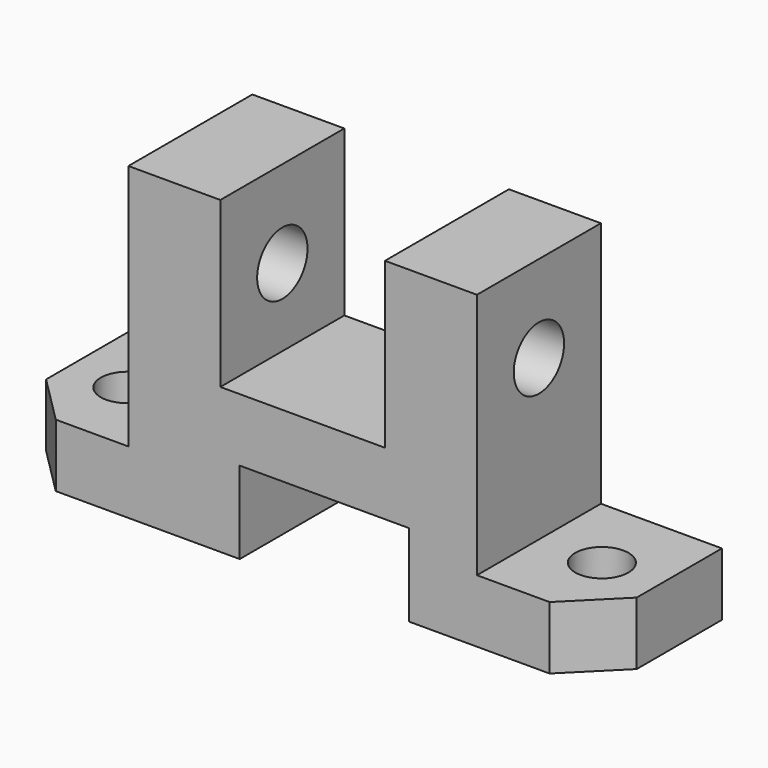
from build123d import *

# Parameters (mm, degrees)
F0_R      = 5.5
F1_DEPTH  = 13
F2_W      = 19
F2_H      = 32
F3_DEPTH  = 64
F4_R      = 6.5
F5_DEPTH  = 19
F6_W      = 17
F6_H      = 32
F7_DEPTH  = 30
F10_W     = 35
F10_H     = 17
F11_DEPTH = 32


with BuildPart() as f1:
    # F0 (on Top) → F1 (new body)
    with BuildSketch(Plane.XY):
        Polygon((0, 32), (0, 0), (15, 0), (25, 10), (25, 32), align=None)
        with Locations((13, 16)):
            Circle(F0_R, mode=Mode.SUBTRACT)
    extrude(amount=F1_DEPTH)

    # F2 (on Top) → F3 (join)
    with BuildSketch(Plane.XY):
        with Locations((-9.5, 16)):
            Rectangle(F2_W, F2_H)
    extrude(amount=F3_DEPTH)

    # F4 (on face) → F5 (cut, through all)
    with BuildSketch(Plane.YZ):
        with Locations((16, 46)):
            Circle(F4_R)
    extrude(amount=-F5_DEPTH, mode=Mode.SUBTRACT)

    # F6 (on Top) → F7 (join)
    with BuildSketch(Plane.XY):
        with Locations((-27.5, 16)):
            Rectangle(F6_W, F6_H)
    extrude(amount=F7_DEPTH)

    # F9: F1 across plane


with BuildPart() as f1_1:
    add(f1.part)
    add(f1.part.mirror(Plane(origin=(-36, 16, 15), x_dir=(0, -1, 0), z_dir=(-1, 0, 0))))

    # F10 (on face) → F11 (cut, through all)
    with BuildSketch(Plane.XZ):
        with Locations((-31.5, 8.5)):
            Rectangle(F10_W, F10_H)
    extrude(amount=-F11_DEPTH, mode=Mode.SUBTRACT)


solid = f1_1.part
